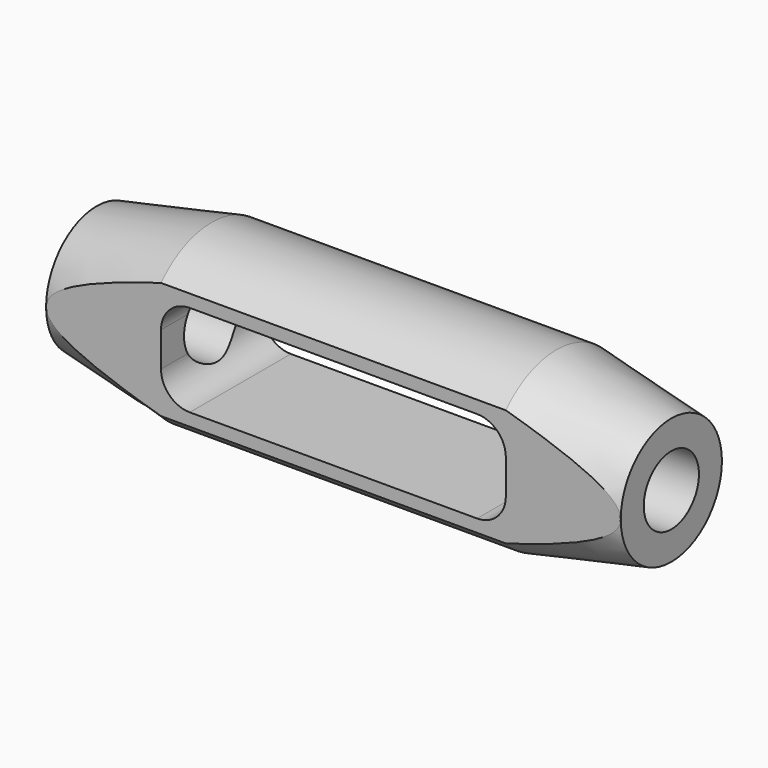
from build123d import *

# Parameters (mm, degrees)
SKETCH025_R      = 6
EXTRUDE022_DEPTH = 150
EXTRUDE021_DEPTH = 30
SKETCH023_W      = 15
SKETCH023_H      = 79.05159
SKETCH023_H_2    = 80
EXTRUDE020_DEPTH = 150


with BuildPart() as extrude022:
    # Sketch025 → Extrude022 (new body, symmetric)
    with BuildSketch(Plane.YZ):
        Circle(SKETCH025_R)
    extrude(amount=EXTRUDE022_DEPTH, both=True)


with BuildPart() as extrude021:
    # Sketch024 → Extrude021 (new body, symmetric)
    with BuildSketch(Plane.XZ):
        with BuildLine():
            Line((30, 3), (30, -3))
            ThreePointArc((25, -8), (28.535534, -6.535534), (30, -3))
            Line((25, -8), (-25, -8))
            ThreePointArc((-30, -3), (-28.535534, -6.535534), (-25, -8))
            Line((-30, -3), (-30, 3))
            ThreePointArc((-25, 8), (-28.535534, 6.535534), (-30, 3))
            Line((-25, 8), (25, 8))
            ThreePointArc((30, 3), (28.535534, 6.535534), (25, 8))
        make_face()
    extrude(amount=EXTRUDE021_DEPTH, both=True)


with BuildPart() as extrude020:
    # Sketch023 → Extrude020 (new body, symmetric)
    with BuildSketch(Plane.YZ):
        with Locations((-18.5, 0.159191)):
            Rectangle(SKETCH023_W, SKETCH023_H)
        with Locations((18.5, -0.315014)):
            Rectangle(SKETCH023_W, SKETCH023_H_2)
    extrude(amount=EXTRUDE020_DEPTH, both=True)


with BuildPart() as obj1:
    # Sketch022 → Revolve003 (revolve)
    with BuildSketch(Plane.XZ):
        Polygon((-50, 0), (-50, 11), (-30, 15), (30, 15), (50, 11), (50, 0), align=None)
    revolve(axis=Axis((-50, 0, 0), (-1, 0, 0)))

    # Cut009: cut Extrude020
    add(extrude020.part, mode=Mode.SUBTRACT)

    # Cut010: cut Extrude021
    add(extrude021.part, mode=Mode.SUBTRACT)

    # Cut011: cut Extrude022
    add(extrude022.part, mode=Mode.SUBTRACT)


with BuildPart() as obj1_1:
    # Cut011 placement: moved
    add(obj1.part.moved(Location((-530, 0, 0))))


solid = obj1_1.part
